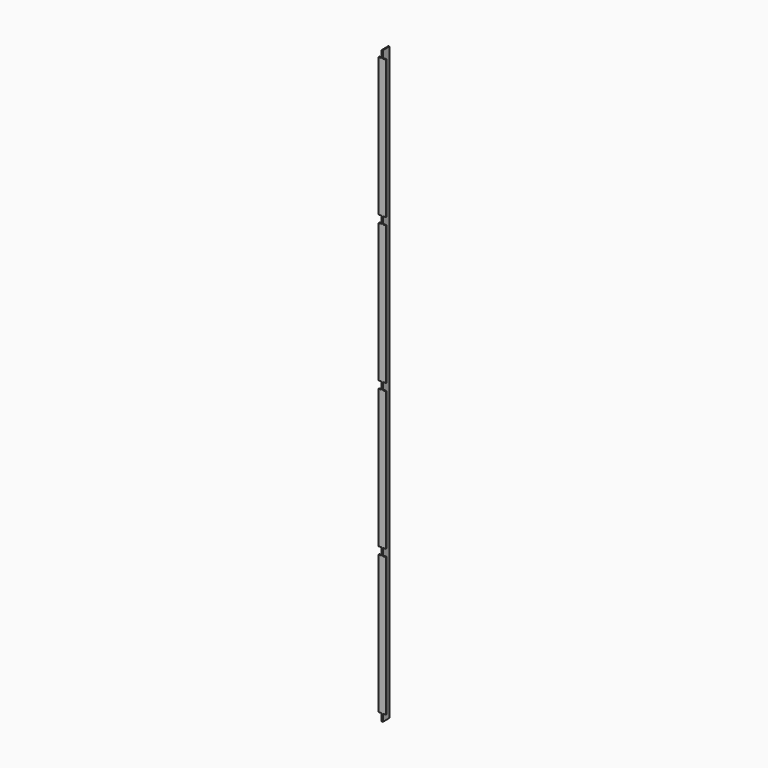
from build123d import *

# Parameters (mm, degrees)
F1_DEPTH = 2025
F2_W     = 10.75
F2_H     = 25
F3_DEPTH = 3.501


with BuildPart() as f1:
    # F0 (on Top) → F1 (new body)
    with BuildSketch(Plane.XY):
        Polygon((-14.25, 0), (-14.25, -3.5), (10.75, -3.5), (10.75, 0), (0, 0), (0, 25), (-3.5, 25), (-3.5, 0), align=None)
    extrude(amount=F1_DEPTH)

    # F2 (on face) → F3 (cut, through all)
    with BuildSketch(Plane(origin=(0, 0, 0), x_dir=(-1, 0, 0), z_dir=(0, 1, 0))):
        with Locations((8.875, 12.5)):
            Rectangle(F2_W, F2_H)
        Polygon((-10.75, 2012.5), (-10.75, 2000), (0, 2000), (0, 2025), (-10.75, 2025), align=None)
        Polygon((-10.75, 1512.5), (-10.75, 1500), (0, 1500), (0, 1525), (-10.75, 1525), align=None)
        Polygon((-10.75, 1012.5), (-10.75, 1000), (0, 1000), (0, 1025), (-10.75, 1025), align=None)
        Polygon((-10.75, 512.5), (-10.75, 500), (0, 500), (0, 525), (-10.75, 525), align=None)
        Polygon((-10.75, 0), (0, 0), (0, 25), (-10.75, 25), (-10.75, 12.5), align=None)
        with Locations((8.875, 2012.5)):
            Rectangle(F2_W, F2_H)
        with Locations((8.875, 1512.5)):
            Rectangle(F2_W, F2_H)
        with Locations((8.875, 1012.5)):
            Rectangle(F2_W, F2_H)
        with Locations((8.875, 512.5)):
            Rectangle(F2_W, F2_H)
    extrude(amount=-F3_DEPTH, mode=Mode.SUBTRACT)


solid = f1.part
